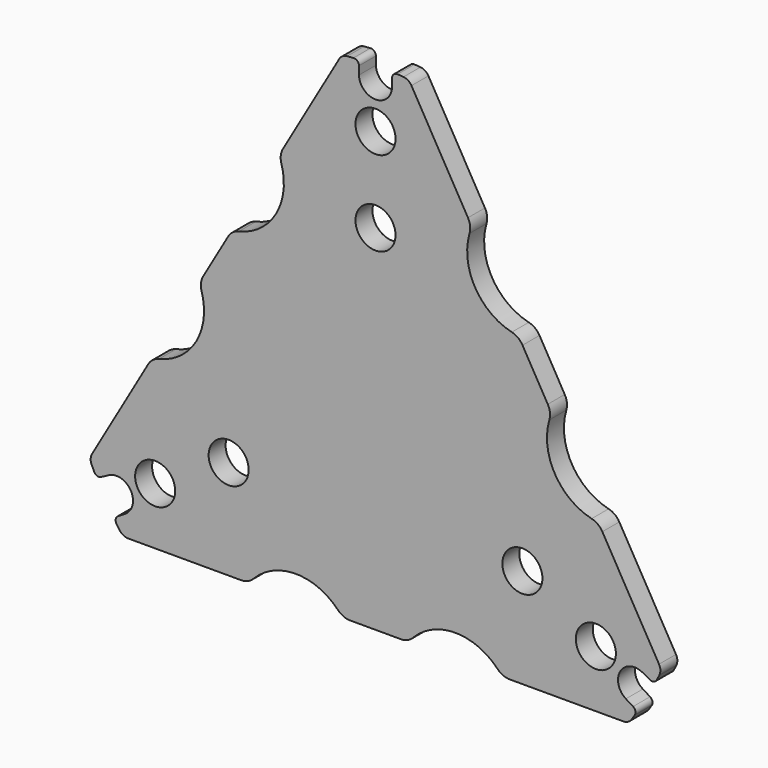
from build123d import *

# Parameters (mm, degrees)
F0_R     = 5.9944
F0_R_2   = 25.4
F1_DEPTH = 6.35
F2_DEPTH = 2.54
F3_R     = 1.524
F4_R     = 3.048
F5_R     = 5.08


with BuildPart() as f1:
    # F0 (on Front) → F1 (new body)
    with BuildSketch(Plane.XZ):
        with BuildLine():
            ThreePointArc((4.951105, 89.398002), (0, 84.582), (-4.951105, 89.398002))
            Line((-4.951105, 89.398002), (-4.951105, 93.506112))
            Line((-4.951105, 93.506112), (-10.074773, 93.093531))
            Line((-10.074773, 93.093531), (-28.89515, 60.495681))
            ThreePointArc((-28.89515, 60.495681), (-29.775746, 44.776954), (-42.948265, 36.154973))
            Line((-42.948265, 36.154973), (-52.785257, 19.116802))
            ThreePointArc((-52.785257, 19.116802), (-53.665853, 3.398075), (-66.838372, -5.223907))
            Line((-66.838372, -5.223907), (-85.658749, -37.821756))
            Line((-85.658749, -37.821756), (-83.505709, -42.363937))
            Line((-83.505709, -42.363937), (-79.896493, -40.411218))
            ThreePointArc((-79.896493, -40.411218), (-73.250161, -42.291), (-74.945388, -48.986784))
            Line((-74.945388, -48.986784), (-78.4411, -51.136097))
            Line((-78.4411, -51.136097), (-75.652926, -55.177362))
            Line((-75.652926, -55.177362), (-37.87309, -55.177362))
            ThreePointArc((-37.87309, -55.177362), (-23.890107, -48.17503), (-9.907124, -55.177362))
            Line((-9.907124, -55.177362), (9.907124, -55.177362))
            ThreePointArc((9.907124, -55.177362), (23.890107, -48.17503), (37.87309, -55.177362))
            Line((37.87309, -55.177362), (75.806581, -55.177362))
            Line((75.806581, -55.177362), (78.4411, -51.136097))
            Line((78.4411, -51.136097), (74.945388, -48.986784))
            ThreePointArc((74.945388, -48.986784), (73.250161, -42.291), (79.896493, -40.411218))
            Line((79.896493, -40.411218), (83.505709, -42.363937))
            Line((83.505709, -42.363937), (85.688288, -38.061744))
            Line((85.688288, -38.061744), (66.721542, -5.210377))
            ThreePointArc((66.721542, -5.210377), (53.665853, 3.398075), (52.73856, 19.00886))
            Line((52.73856, 19.00886), (42.831435, 36.168502))
            ThreePointArc((42.831435, 36.168502), (29.775746, 44.776954), (28.848452, 60.387739))
            Line((28.848452, 60.387739), (9.958534, 93.106037))
            Line((9.958534, 93.106037), (4.951105, 93.506112))
            Line((4.951105, 93.506112), (4.951105, 89.398002))
        make_face()
        with Locations((-65.95814, -38.08095)):
            Circle(F0_R, mode=Mode.SUBTRACT)
        with Locations((-43.961095, -25.38095)):
            Circle(F0_R, mode=Mode.SUBTRACT)
        Circle(F0_R_2, mode=Mode.SUBTRACT)
        with Locations((65.95814, -38.08095)):
            Circle(F0_R, mode=Mode.SUBTRACT)
        with Locations((43.961095, -25.38095)):
            Circle(F0_R, mode=Mode.SUBTRACT)
        with Locations((0, 50.7619)):
            Circle(F0_R, mode=Mode.SUBTRACT)
        with Locations((0, 76.1619)):
            Circle(F0_R, mode=Mode.SUBTRACT)
        Circle(F0_R_2)
    extrude(amount=F1_DEPTH)

    # F0 (on Front) → F2 (cut)
    with BuildSketch(Plane.XZ):
        Circle(F0_R_2)
    extrude(amount=F2_DEPTH, mode=Mode.SUBTRACT)

    # F3
    f3_edges = [f1.edges().sort_by_distance(p)[0] for p in [
        (83.505709, -3.175, -42.363937),
        (78.4411, -3.175, -51.136097),
        (4.951105, -3.175, 93.506112),
        (-4.951105, -3.175, 93.506112),
        (-83.505709, -3.175, -42.363937),
        (-78.4411, -3.175, -51.136097),
    ]]
    fillet(f3_edges, radius=F3_R)

    # F4
    f4_edges = [f1.edges().sort_by_distance(p)[0] for p in [
        (-85.658749, -3.175, -37.821756),
        (-75.652926, -3.175, -55.177362),
        (75.806581, -3.175, -55.177362),
        (85.688288, -3.175, -38.061744),
        (9.958534, -3.175, 93.106037),
        (-10.074773, -3.175, 93.093531),
    ]]
    fillet(f4_edges, radius=F4_R)

    # F5
    f5_edges = [f1.edges().sort_by_distance(p)[0] for p in [
        (28.848452, -3.175, 60.387739),
        (42.831435, -3.175, 36.168502),
        (52.73856, -3.175, 19.00886),
        (66.721542, -3.175, -5.210377),
        (37.87309, -3.175, -55.177362),
        (9.907124, -3.175, -55.177362),
        (-9.907124, -3.175, -55.177362),
        (-37.87309, -3.175, -55.177362),
        (-66.838372, -3.175, -5.223907),
        (-52.785257, -3.175, 19.116802),
        (-42.948265, -3.175, 36.154973),
        (-28.89515, -3.175, 60.495681),
    ]]
    fillet(f5_edges, radius=F5_R)


solid = f1.part
